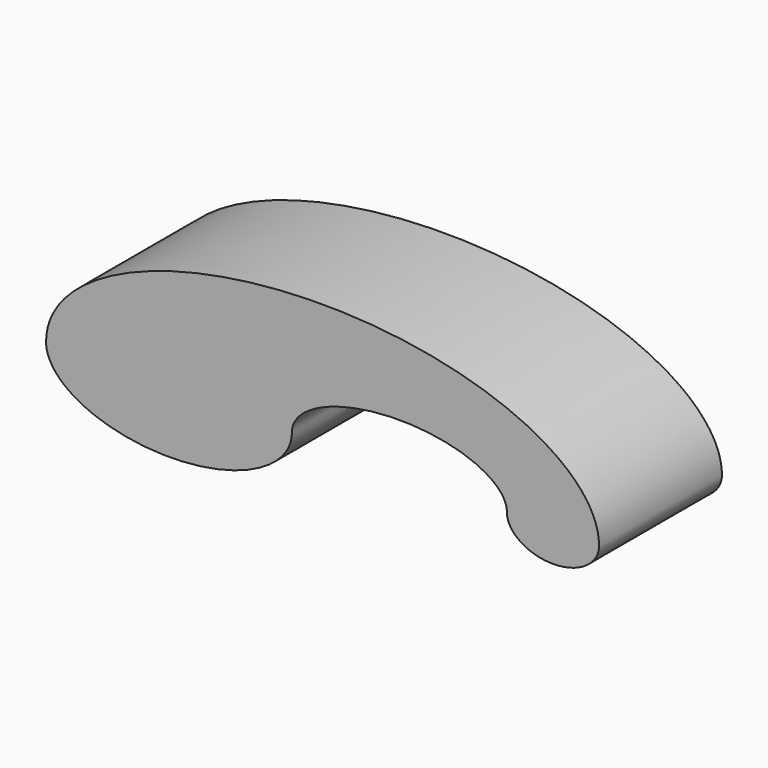
from build123d import *

# Parameters (mm, degrees)
F1_DEPTH = 25


with BuildPart() as f1:
    # F0 (on Front) → F1 (new body)
    with BuildSketch(Plane.XZ):
        with BuildLine():
            add(Edge.make_bspline(
                [(30, 0), (30, -5), (37.5, -5), (45, -5), (45, 0)],
                knots=[0, 0, 0, 1.5707963268, 1.5707963268, 3.1415926536, 3.1415926536, 3.1415926536], degree=2, weights=[1, 0.7071067812, 1, 0.7071067812, 1]))
            add(Edge.make_bspline(
                [(45, 0), (45, 20), (0, 20), (-45, 20), (-45, 0)],
                knots=[3.1415926536, 3.1415926536, 3.1415926536, 4.7123889804, 4.7123889804, 6.2831853072, 6.2831853072, 6.2831853072], degree=2, weights=[1, 0.7071067812, 1, 0.7071067812, 1]))
            add(Edge.make_bspline(
                [(-45, 0), (-45, -10), (-25, -10), (-5, -10), (-5, 0)],
                knots=[0, 0, 0, 1.5707963268, 1.5707963268, 3.1415926536, 3.1415926536, 3.1415926536], degree=2, weights=[1, 0.7071067812, 1, 0.7071067812, 1]))
            add(Edge.make_bspline(
                [(30, 0), (30, 7.5), (12.5, 7.5), (-5, 7.5), (-5, 0)],
                knots=[3.1415926536, 3.1415926536, 3.1415926536, 4.7123889804, 4.7123889804, 6.2831853072, 6.2831853072, 6.2831853072], degree=2, weights=[1, 0.7071067812, 1, 0.7071067812, 1]))
        make_face()
    extrude(amount=F1_DEPTH)


solid = f1.part
